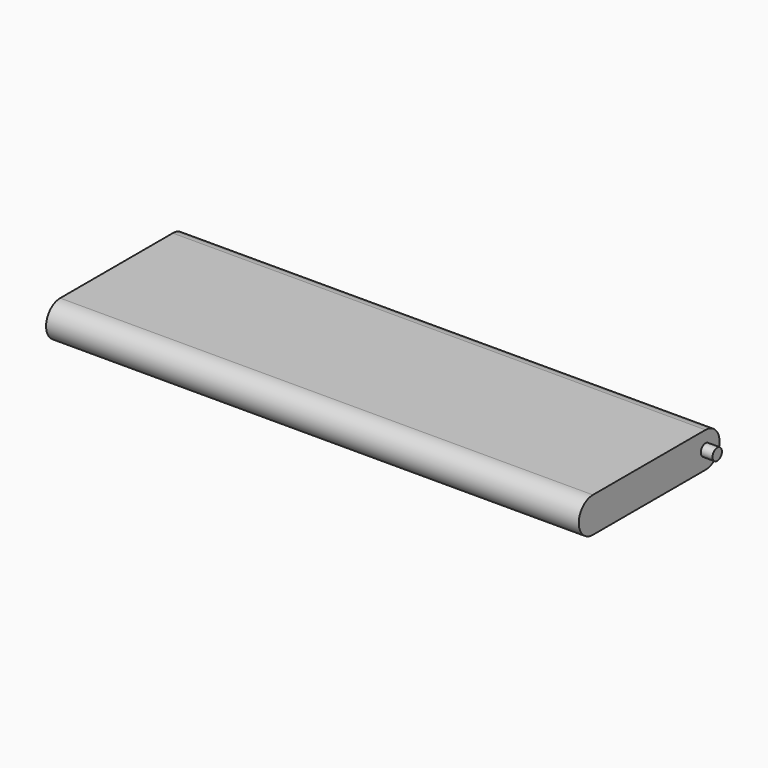
from build123d import *

# Parameters (mm, degrees)
PAD_DEPTH    = 22.7
SKETCH001_W  = 8
SKETCH001_H  = 43.4
POCKET_DEPTH = 1.5
SKETCH002_R  = 0.5
PAD001_DEPTH = 1
SKETCH003_R  = 0.5
PAD002_DEPTH = 1


with BuildPart() as part:
    # Sketch → Pad (new body, symmetric)
    with BuildSketch(Plane.YZ):
        with BuildLine():
            Line((-6, 1.5), (6, 1.5))
            ThreePointArc((6, -1.5), (7.5, 0), (6, 1.5))
            Line((6, -1.5), (-6, -1.5))
            ThreePointArc((-6, 1.5), (-7.5, 0), (-6, -1.5))
        make_face()
    extrude(amount=PAD_DEPTH, both=True)

    # Sketch001 (on Face1 of Pad) → Pocket (cut)
    with BuildSketch(Plane.YX.offset(1.5)):
        Rectangle(SKETCH001_W, SKETCH001_H)
    extrude(amount=-POCKET_DEPTH, mode=Mode.SUBTRACT)

    # Sketch002 (on Face4 of Pocket) → Pad001 (join)
    with BuildSketch(Plane.YZ.offset(22.7)):
        with Locations((6, 0)):
            Circle(SKETCH002_R)
    extrude(amount=PAD001_DEPTH)

    # Sketch003 (on Face3 of Pad001) → Pad002 (join)
    with BuildSketch(Plane(origin=(-22.7, 0, 0), x_dir=(0, 1, 0), z_dir=(-1, 0, 0))):
        with Locations((6, 0)):
            Circle(SKETCH003_R)
    extrude(amount=PAD002_DEPTH)


solid = part.part
